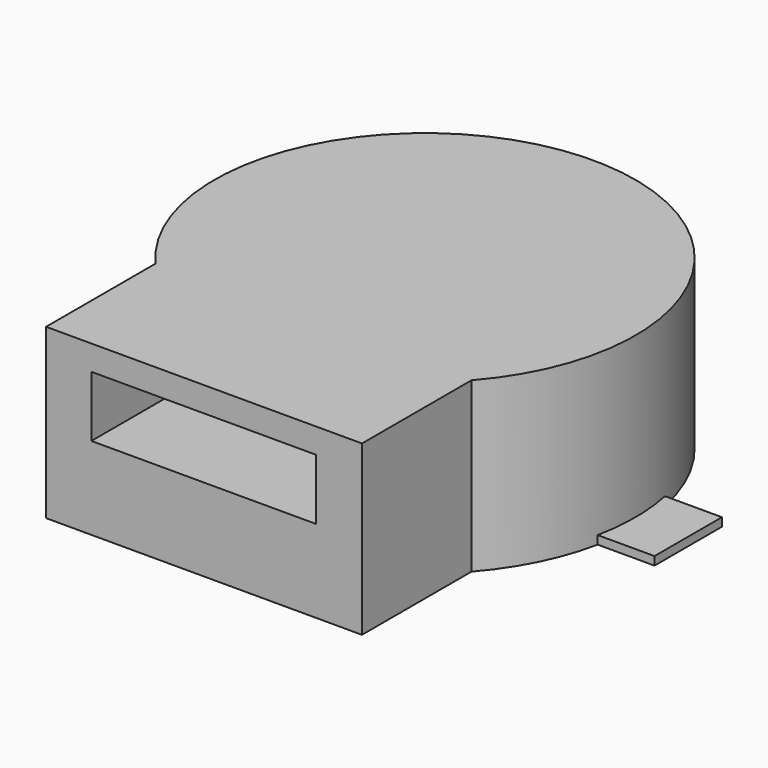
from build123d import *

# Parameters (mm, degrees)
PAD_DEPTH    = 3.2
SKETCH001_W  = 1.6
SKETCH001_H  = 0.16
PAD001_DEPTH = 2
SKETCH002_W  = 4.264834
SKETCH002_H  = 1.156565
POCKET_DEPTH = 5


with BuildPart() as part:
    # Sketch → Pad (new body)
    with BuildSketch(Plane.XY):
        with BuildLine():
            ThreePointArc((3, -2.645751), (0, 4), (-3, -2.645751))
            Line((-3, -2.645751), (-3, -5.245751))
            Line((-3, -5.245751), (3, -5.245751))
            Line((3, -5.245751), (3, -2.645751))
        make_face()
    extrude(amount=PAD_DEPTH)

    # Sketch001 (on Face2 of Pad) → Pad001 (join)
    with BuildSketch(Plane(origin=(-3, 0, 0), x_dir=(0, -1, 0), z_dir=(-1, 0, 0))):
        with Locations((0, 0.08)):
            Rectangle(SKETCH001_W, SKETCH001_H)
    pad001 = extrude(amount=PAD001_DEPTH)

    # Mirrored: Pad001 across YZ
    add(pad001.mirror(Plane.YZ))

    # Sketch002 (on Face12 of Mirrored) → Pocket (cut)
    with BuildSketch(Plane.XZ.offset(5.245751)):
        with Locations((-0.006884, 2.148988)):
            Rectangle(SKETCH002_W, SKETCH002_H)
    extrude(amount=-POCKET_DEPTH, mode=Mode.SUBTRACT)


solid = part.part
